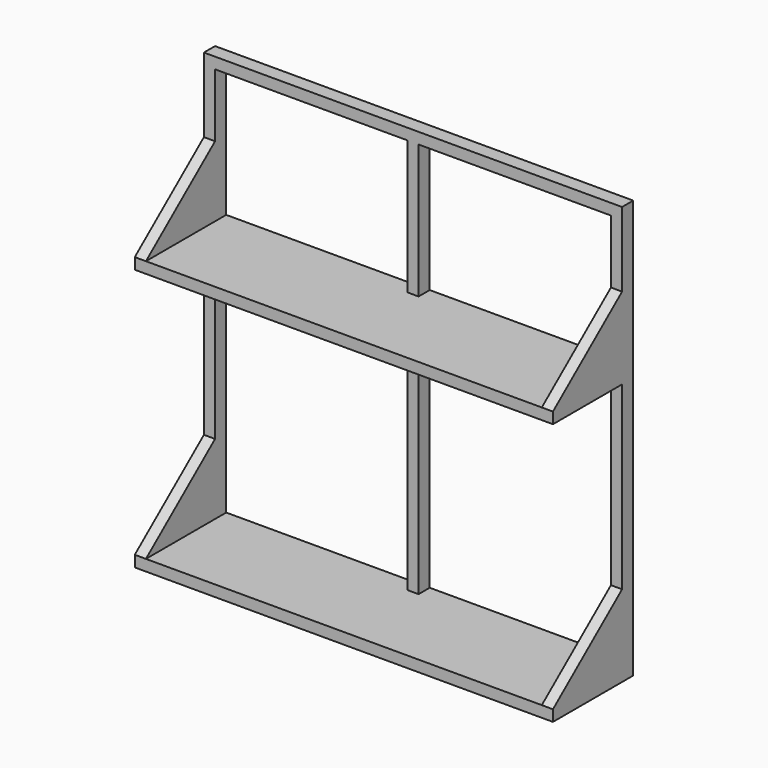
from build123d import *

# Parameters (mm, degrees)
F1_DEPTH = 45.72
F0_W     = 5.08
F0_H     = 114.3
F2_DEPTH = 6.35
F5_DEPTH = 5.08
F7_DEPTH = 5.08


with BuildPart() as f1:
    # F0 (on Front) → F1 (new body)
    with BuildSketch(Plane.XZ):
        Polygon((-90.17, 29.21), (-95.25, 29.21), (-95.25, 24.13), (-90.17, 24.13), (-2.54, 24.13), (2.54, 24.13), (90.17, 24.13), (95.25, 24.13), (95.25, 29.21), (90.17, 29.21), (2.54, 29.21), (-2.54, 29.21), align=None)
    extrude(amount=F1_DEPTH)


with BuildPart() as f1b:
    # F0 (on Front) → F1, piece 2 (new body)
    with BuildSketch(Plane.XZ):
        Polygon((-90.17, -90.17), (-95.25, -90.17), (-95.25, -95.25), (95.25, -95.25), (95.25, -90.17), (90.17, -90.17), (2.54, -90.17), (-2.54, -90.17), align=None)
    extrude(amount=F1_DEPTH)


with BuildPart() as f2:
    # F0 (on Front) → F2 (new body)
    with BuildSketch(Plane.XZ):
        with Locations((-92.71, -33.02)):
            Rectangle(F0_W, F0_H)
    extrude(amount=F2_DEPTH)


with BuildPart() as f2b:
    # F0 (on Front) → F2, piece 2 (new body)
    with BuildSketch(Plane.XZ):
        Polygon((95.25, 95.25), (-95.25, 95.25), (-95.25, 29.21), (-90.17, 29.21), (-90.17, 90.17), (-2.54, 90.17), (-2.54, 29.21), (2.54, 29.21), (2.54, 90.17), (90.17, 90.17), (90.17, 29.21), (95.25, 29.21), align=None)
    extrude(amount=F2_DEPTH)


with BuildPart() as f2c:
    # F0 (on Front) → F2, piece 3 (new body)
    with BuildSketch(Plane.XZ):
        with Locations((0, -33.02)):
            Rectangle(F0_W, F0_H)
    extrude(amount=F2_DEPTH)


with BuildPart() as f2d:
    # F0 (on Front) → F2, piece 4 (new body)
    with BuildSketch(Plane.XZ):
        with Locations((92.71, -33.02)):
            Rectangle(F0_W, F0_H)
    extrude(amount=F2_DEPTH)


with BuildPart() as f1b_1:
    add(f1b.part)

    # F3: union F1, F2b, F2, F2d, F2c
    add(f1.part)
    add(f2b.part)
    add(f2.part)
    add(f2d.part)
    add(f2c.part)

    # F4 (on face) → F5 (join)
    with BuildSketch(Plane.YZ.offset(95.25)):
        Polygon((-6.35, 61.3136306358), (-45.72, 29.21), (-6.35, 29.21), align=None)
        Polygon((-6.35, -90.17), (-6.35, -58.0663693642), (-45.72, -90.17), align=None)
    extrude(amount=-F5_DEPTH)

    # F6 (on face) → F7 (join)
    with BuildSketch(Plane(origin=(-95.25, 0, 0), x_dir=(0, -1, 0), z_dir=(-1, 0, 0))):
        Polygon((6.35, 29.21), (45.72, 29.21), (6.35, 61.3136306358), align=None)
        Polygon((45.72, -90.17), (6.35, -58.0663693642), (6.35, -90.17), align=None)
    extrude(amount=-F7_DEPTH)


solid = f1b_1.part
